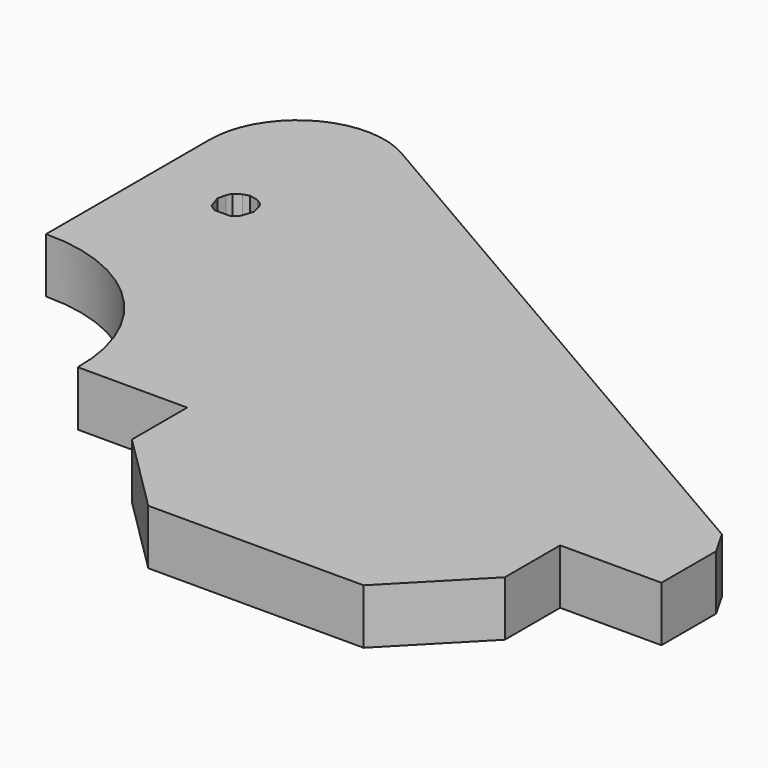
from build123d import *

# Parameters (mm, degrees)
F1_DEPTH = 1.5


with BuildPart() as f1:
    # F0 (on Top) → F1 (new body)
    with BuildSketch(Plane.XY):
        with BuildLine():
            Line((-2.935886, -5.091805), (-0.755719, -7.261388))
            Line((-0.755719, -7.261388), (5.118031, -7.261388))
            Line((5.118031, -7.261388), (7.234697, -5.091805))
            Line((7.234697, -5.091805), (7.234697, -3.207972))
            Line((7.234697, -3.207972), (9.996947, -3.207972))
            Line((9.996947, -3.207972), (9.996947, -1.345305))
            Line((9.996947, -1.345305), (9.605364, -0.657388))
            Line((9.605364, -0.657388), (-6.703553, 8.804112))
            ThreePointArc((-6.703553, 8.804112), (-9.089108, 8.806989), (-10.280719, 6.740362))
            Line((-10.280719, 6.740362), (-10.280719, 1.162945))
            ThreePointArc((-10.280719, 1.162945), (-7.171889, -0.096342), (-5.920143, -3.208215))
            Line((-5.920143, -3.208215), (-2.935886, -3.208215))
            Line((-2.935886, -3.208215), (-2.935886, -5.091805))
        make_face()
        Polygon((-7.581969, 4.380278), (-7.751303, 4.263862), (-8.164053, 4.263862), (-8.343969, 4.380278), (-8.460386, 4.729528), (-8.407469, 4.962362), (-8.343969, 5.089362), (-8.164053, 5.205778), (-7.994719, 5.258695), (-7.751303, 5.205778), (-7.581969, 5.089362), (-7.518469, 4.962362), (-7.465553, 4.729528), align=None, mode=Mode.SUBTRACT)
    extrude(amount=F1_DEPTH)


solid = f1.part
